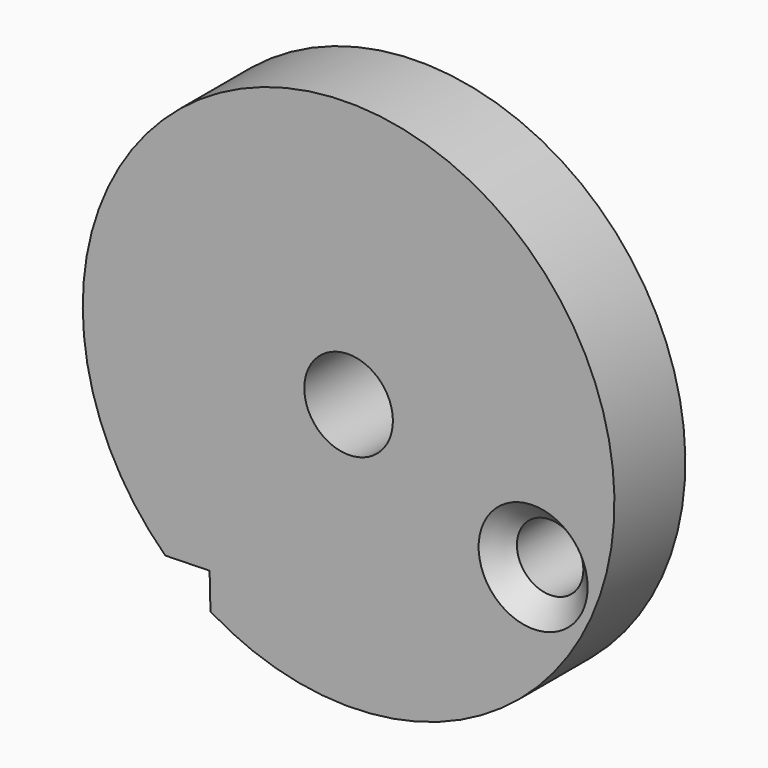
from build123d import *

# Parameters (mm, degrees)
F0_R     = 1.190625
F0_R_2   = 1.5875
F1_DEPTH = 1.5875
F2_SIZE  = 0.762


with BuildPart() as f1:
    # F0 (on Front) → F1 (new body, symmetric)
    with BuildSketch(Plane.XZ):
        with BuildLine():
            Line((-4.19507, -3.443071), (-4.164685, -4.719849))
            ThreePointArc((-4.164685, -4.719849), (6.575626, 10.980695), (-5.78257, -3.480852))
            Line((-5.78257, -3.480852), (-4.19507, -3.443071))
        make_face()
        with Locations((7.395771, 0.439879)):
            Circle(F0_R, mode=Mode.SUBTRACT)
        with Locations((0.784385, 3.418477)):
            Circle(F0_R_2, mode=Mode.SUBTRACT)
    extrude(amount=F1_DEPTH, both=True)

    # F2
    f2_edges = [f1.edges().sort_by_distance(p)[0] for p in [
        (6.205146, -1.5875, 0.439879),
    ]]
    chamfer(f2_edges, length=F2_SIZE)


solid = f1.part
